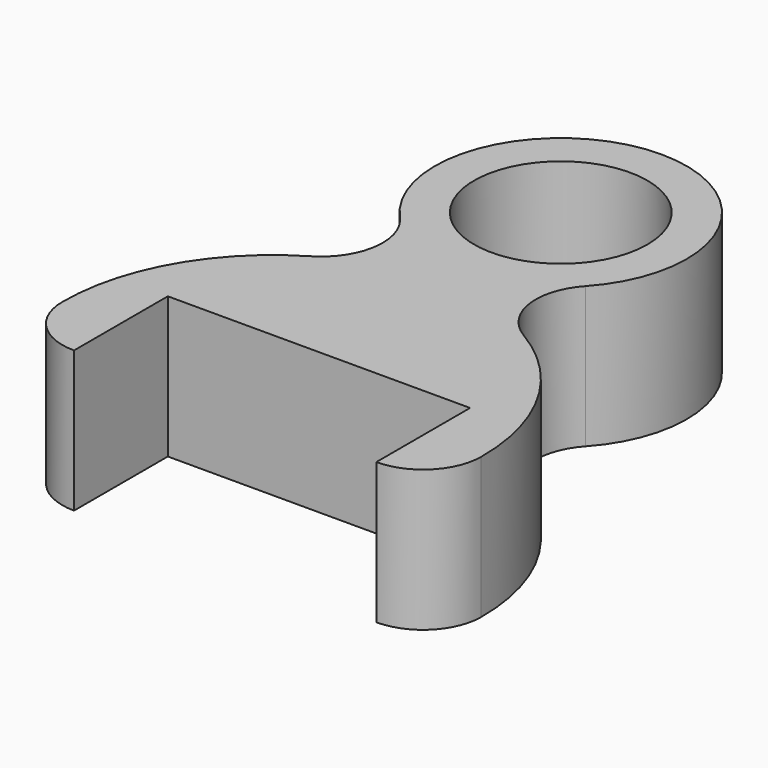
from build123d import *

# Parameters (mm, degrees)
SKETCH_R     = 8.6
PAD_DEPTH    = 7
POCKET_DEPTH = 2.75


with BuildPart() as part:
    # Sketch → Pad (new body, symmetric)
    with BuildSketch(Plane.XY):
        with BuildLine():
            ThreePointArc((9.208059, -8.4535), (0, 12.5), (-9.208059, -8.4535))
            ThreePointArc((-10.598151, -17.864192), (-7.660974, -13.49004), (-9.208059, -8.4535))
            ThreePointArc((-10.598151, -17.864192), (-18.095301, -25.509629), (-20.794271, -35.871845))
            ThreePointArc((-20.794271, -35.871845), (-19.085742, -39.948082), (-15, -41.633753))
            Line((-15, -41.633753), (-15, -30))
            Line((-15, -30), (15, -30))
            Line((15, -30), (15, -41.633753))
            ThreePointArc((15, -41.633753), (19.085742, -39.948082), (20.794271, -35.871845))
            ThreePointArc((20.794271, -35.871845), (18.095301, -25.509629), (10.598151, -17.864192))
            ThreePointArc((9.208059, -8.4535), (7.660974, -13.49004), (10.598151, -17.864192))
        make_face()
        Circle(SKETCH_R, mode=Mode.SUBTRACT)
    extrude(amount=PAD_DEPTH, both=True)

    # Sketch001 → Pocket (cut, symmetric)
    with BuildSketch(Plane.XY):
        with BuildLine():
            ThreePointArc((10.598151, -17.864192), (0, -14.960779), (-10.598151, -17.864192))
            Line((-11.617468, -16.143439), (-10.598151, -17.864192))
            ThreePointArc((11.617468, -16.143439), (0, -12.960779), (-11.617468, -16.143439))
            Line((11.617468, -16.143439), (10.598151, -17.864192))
        make_face()
    extrude(amount=POCKET_DEPTH, both=True, mode=Mode.SUBTRACT)


solid = part.part
